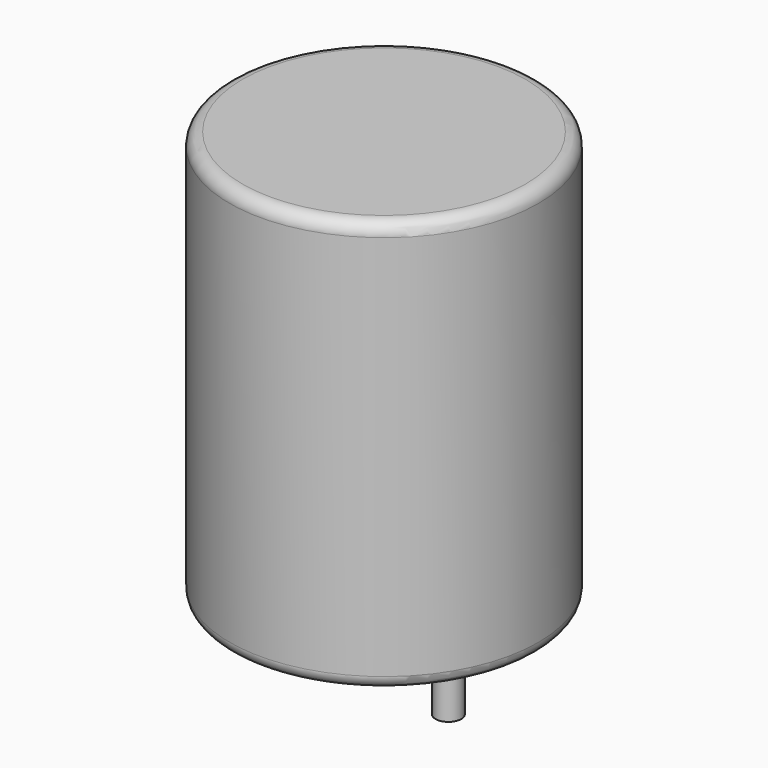
from build123d import *

# Parameters (mm, degrees)
SKETCH001_R       = 0.5
PAD001_DEPTH      = 8
PAD001_DEPTH_BACK = 3.5
SKETCH_R          = 6
PAD_DEPTH         = 16
FILLET_R          = 0.5


with BuildPart() as pad001:
    # Sketch001 → Pad001 (new body, two sides)
    with BuildSketch(Plane.XY.offset(0.5)) as pad001_sk:
        Circle(SKETCH001_R)
        with Locations((5, 0)):
            Circle(SKETCH001_R)
    extrude(amount=PAD001_DEPTH)
    extrude(pad001_sk.sketch, amount=-PAD001_DEPTH_BACK)


with BuildPart() as obj1:
    # Sketch → Pad (new body)
    with BuildSketch(Plane.XY.offset(0.1)):
        with Locations((2.5, 0)):
            Circle(SKETCH_R)
    extrude(amount=PAD_DEPTH)

    # Fillet
    fillet_edges = [obj1.edges().sort_by_distance(p)[0] for p in [
        (-3.5, 0, 0.1),
        (-3.5, 0, 16.1),
    ]]
    fillet(fillet_edges, radius=FILLET_R)

    add(pad001.part)


solid = obj1.part
